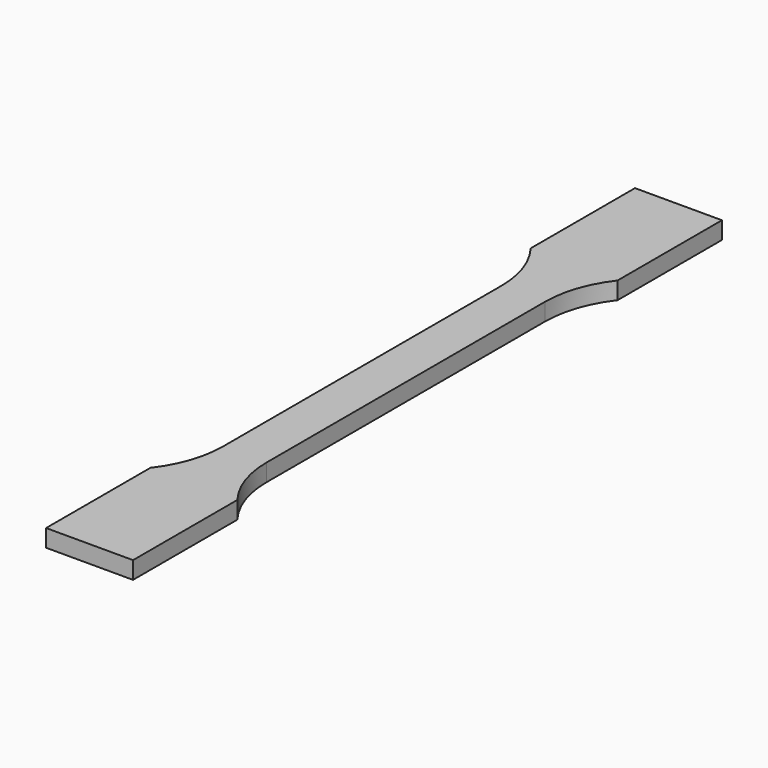
from build123d import *

# Parameters (mm, degrees)
F1_DEPTH = 4


with BuildPart() as f1:
    # F0 (on Top) → F1 (new body)
    with BuildSketch(Plane.XY):
        with BuildLine():
            Line((-5, 40), (-5, 0))
            Line((-5, 0), (0, 0))
            Line((0, 0), (0, 84.662878))
            Line((0, 84.662878), (-10, 84.662878))
            Line((-10, 84.662878), (-10, 54.662878))
            ThreePointArc((-10, 54.662878), (-6.284367, 47.745967), (-5, 40))
        make_face()
    extrude(amount=F1_DEPTH)

    # F2: F1 across face


with BuildPart() as f1_1:
    add(f1.part)
    add(f1.part.mirror(Plane(origin=(0, 42.331439, 2), x_dir=(0, 1, 0), z_dir=(1, 0, 0))))

    # F3: F1 across face


with BuildPart() as f1_2:
    add(f1_1.part)
    add(f1_1.part.mirror(Plane(origin=(0, 0, 2), x_dir=(1, 0, 0), z_dir=(0, -1, 0))))


solid = f1_2.part
